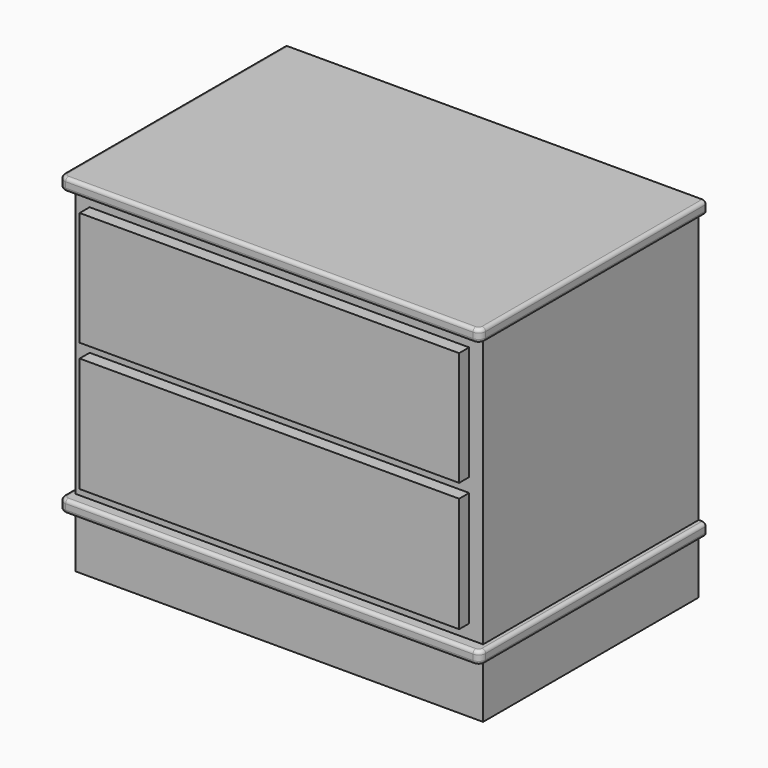
from build123d import *

# Parameters (mm, degrees)
F0_W      = 605
F0_H      = 405
F1_DEPTH  = 505
F2_W      = 10
F2_H      = 389
F2_H_2    = 80
F3_DEPTH  = 410
F4_W      = 18
F4_H      = 389
F4_H_2    = 80
F5_DEPTH  = 610
F7_DEPTH  = 510
F8_R      = 5
F9_W      = 545
F9_H      = 164
F9_H_2    = 165
F10_DEPTH = 18


with BuildPart() as f1:
    # F0 (on Top) → F1 (new body)
    with BuildSketch(Plane.XY):
        with Locations((-302.5, 202.5)):
            Rectangle(F0_W, F0_H)
    extrude(amount=F1_DEPTH)

    # F2 (on face) → F3 (cut)
    with BuildSketch(Plane.XZ):
        with Locations((-600, 292.5)):
            Rectangle(F2_W, F2_H)
        with Locations((-600, 40)):
            Rectangle(F2_W, F2_H_2)
        with Locations((-5, 292.5)):
            Rectangle(F2_W, F2_H)
        with Locations((-5, 40)):
            Rectangle(F2_W, F2_H_2)
    extrude(amount=-F3_DEPTH, mode=Mode.SUBTRACT)

    # F4 (on face) → F5 (cut)
    with BuildSketch(Plane(origin=(-595, 0, 0), x_dir=(0, -1, 0), z_dir=(-1, 0, 0))):
        with Locations((-9, 292.5)):
            Rectangle(F4_W, F4_H)
        with Locations((-9, 40)):
            Rectangle(F4_W, F4_H_2)
    extrude(amount=-F5_DEPTH, mode=Mode.SUBTRACT)

    # F6 (on face) → F7 (cut)
    with BuildSketch(Plane.XY.offset(505)):
        with BuildLine():
            ThreePointArc((-595, 0), (-602.0710678119, 2.9289321881), (-605, 10))
            Line((-605, 10), (-605, 0))
            Line((-605, 0), (-595, 0))
        make_face()
        with BuildLine():
            Line((0, 0), (0, 10))
            ThreePointArc((0, 10), (-2.9289321881, 2.9289321881), (-10, 0))
            Line((-10, 0), (0, 0))
        make_face()
    extrude(amount=-F7_DEPTH, mode=Mode.SUBTRACT)

    # F8
    f8_edges = [f1.edges().sort_by_distance(p)[0] for p in [
        (-302.5, 0, 505),
        (-302.5, 0, 487),
        (-302.5, 0, 98),
        (-302.5, 0, 80),
    ]]
    fillet(f8_edges, radius=F8_R)

    # F9 (on face) → F10 (join)
    with BuildSketch(Plane.XZ.offset(-18)):
        with Locations((-302.5, 385)):
            Rectangle(F9_W, F9_H)
        with Locations((-302.5, 200.5)):
            Rectangle(F9_W, F9_H_2)
    extrude(amount=F10_DEPTH)


solid = f1.part
